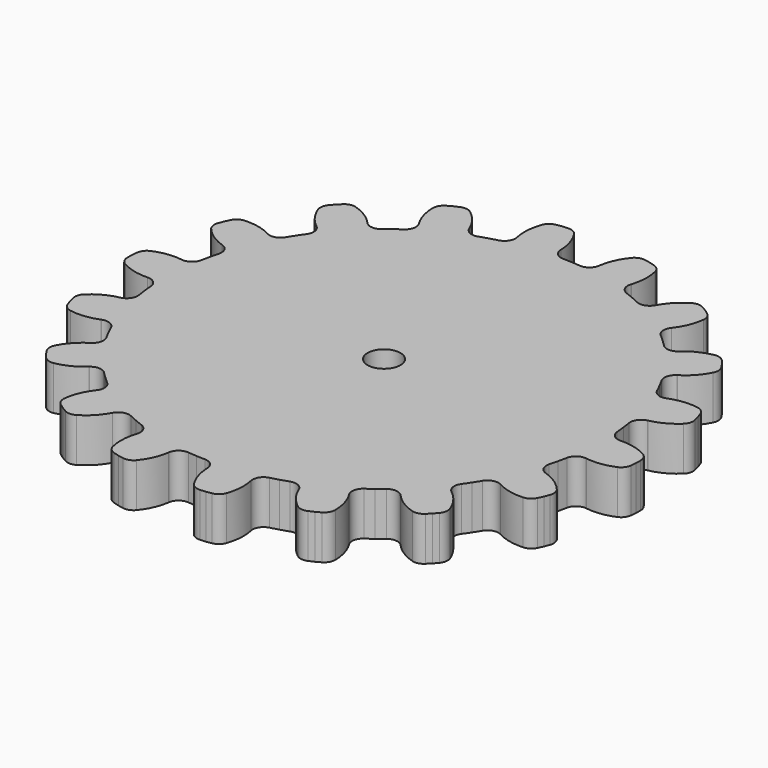
from build123d import *

# Parameters (mm, degrees)
F1_DEPTH = 4
F2_COUNT = 18
F4_R     = 1.5
F5_DEPTH = 4


with BuildPart() as f1:
    # F0 (on Top) → F1 (new body)
    with BuildSketch(Plane.XY):
        with BuildLine():
            ThreePointArc((23.992644, -0.806669), (23.859134, -0.296494), (23.484666, 0.074825))
            ThreePointArc((23.484666, 0.074825), (22.278879, 0.553036), (20.988736, 0.687722))
            Line((20.988736, 0.687722), (20.964926, 0.686942))
            ThreePointArc((20.964926, 0.686942), (20.266183, 0.940448), (19.935407, 1.606101))
            ThreePointArc((19.935407, 1.606101), (19.899671, 2.000774), (19.856122, 2.394661))
            Line((19.856122, 2.394661), (0, 0))
            Line((0, 0), (19.477674, -4.540949))
            ThreePointArc((19.477674, -4.540949), (19.563822, -4.154138), (19.642289, -3.765697))
            ThreePointArc((19.642289, -3.765697), (20.04353, -3.139988), (20.765708, -2.964015))
            Line((20.765708, -2.964015), (20.789292, -2.967382))
            ThreePointArc((20.789292, -2.967382), (22.086429, -2.973873), (23.337091, -2.629701))
            ThreePointArc((23.337091, -2.629701), (23.749738, -2.301332), (23.937967, -1.808712))
            Line((23.937967, -1.808712), (23.987181, -1.308884))
            Line((23.987181, -1.308884), (23.992644, -0.806669))
        make_face()
    extrude(amount=F1_DEPTH)


with BuildPart() as f2_1:
    # F2: instance of F1
    add(f1.part.rotate(Axis((0, 0, 2), (0, 0, -1)), 1 * 360 / F2_COUNT))


with BuildPart() as f2_2:
    # F2: instance of F1
    add(f1.part.rotate(Axis((0, 0, 2), (0, 0, -1)), 2 * 360 / F2_COUNT))


with BuildPart() as f2_3:
    # F2: instance of F1
    add(f1.part.rotate(Axis((0, 0, 2), (0, 0, -1)), 3 * 360 / F2_COUNT))


with BuildPart() as f2_4:
    # F2: instance of F1
    add(f1.part.rotate(Axis((0, 0, 2), (0, 0, -1)), 4 * 360 / F2_COUNT))


with BuildPart() as f2_5:
    # F2: instance of F1
    add(f1.part.rotate(Axis((0, 0, 2), (0, 0, -1)), 5 * 360 / F2_COUNT))


with BuildPart() as f2_6:
    # F2: instance of F1
    add(f1.part.rotate(Axis((0, 0, 2), (0, 0, -1)), 6 * 360 / F2_COUNT))


with BuildPart() as f2_7:
    # F2: instance of F1
    add(f1.part.rotate(Axis((0, 0, 2), (0, 0, -1)), 7 * 360 / F2_COUNT))


with BuildPart() as f2_8:
    # F2: instance of F1
    add(f1.part.rotate(Axis((0, 0, 2), (0, 0, -1)), 8 * 360 / F2_COUNT))


with BuildPart() as f2_9:
    # F2: instance of F1
    add(f1.part.rotate(Axis((0, 0, 2), (0, 0, -1)), 9 * 360 / F2_COUNT))


with BuildPart() as f2_10:
    # F2: instance of F1
    add(f1.part.rotate(Axis((0, 0, 2), (0, 0, -1)), 10 * 360 / F2_COUNT))


with BuildPart() as f2_11:
    # F2: instance of F1
    add(f1.part.rotate(Axis((0, 0, 2), (0, 0, -1)), 11 * 360 / F2_COUNT))


with BuildPart() as f2_12:
    # F2: instance of F1
    add(f1.part.rotate(Axis((0, 0, 2), (0, 0, -1)), 12 * 360 / F2_COUNT))


with BuildPart() as f2_13:
    # F2: instance of F1
    add(f1.part.rotate(Axis((0, 0, 2), (0, 0, -1)), 13 * 360 / F2_COUNT))


with BuildPart() as f2_14:
    # F2: instance of F1
    add(f1.part.rotate(Axis((0, 0, 2), (0, 0, -1)), 14 * 360 / F2_COUNT))


with BuildPart() as f2_15:
    # F2: instance of F1
    add(f1.part.rotate(Axis((0, 0, 2), (0, 0, -1)), 15 * 360 / F2_COUNT))


with BuildPart() as f2_16:
    # F2: instance of F1
    add(f1.part.rotate(Axis((0, 0, 2), (0, 0, -1)), 16 * 360 / F2_COUNT))


with BuildPart() as f2_17:
    # F2: instance of F1
    add(f1.part.rotate(Axis((0, 0, 2), (0, 0, -1)), 17 * 360 / F2_COUNT))


with BuildPart() as f2_6_1:
    add(f2_6.part)

    # F3: union F2_12, F2_14, F2_13, F2_9, F2_10, F2_11, F2_5, F2_16, F2_17, F2_15, F2_7, F2_8, F2_2, F2_3, F2_4, F2_1, F1
    add(f2_12.part)
    add(f2_14.part)
    add(f2_13.part)
    add(f2_9.part)
    add(f2_10.part)
    add(f2_11.part)
    add(f2_5.part)
    add(f2_16.part)
    add(f2_17.part)
    add(f2_15.part)
    add(f2_7.part)
    add(f2_8.part)
    add(f2_2.part)
    add(f2_3.part)
    add(f2_4.part)
    add(f2_1.part)
    add(f1.part)

    # F4 (on face) → F5 (cut, through all)
    with BuildSketch(Plane.XY.offset(4)):
        Circle(F4_R)
    extrude(amount=-F5_DEPTH, mode=Mode.SUBTRACT)


with BuildPart() as f6_1:
    # F6: copy of F2_6
    add(f2_6_1.part)


solid = f2_6_1.part
